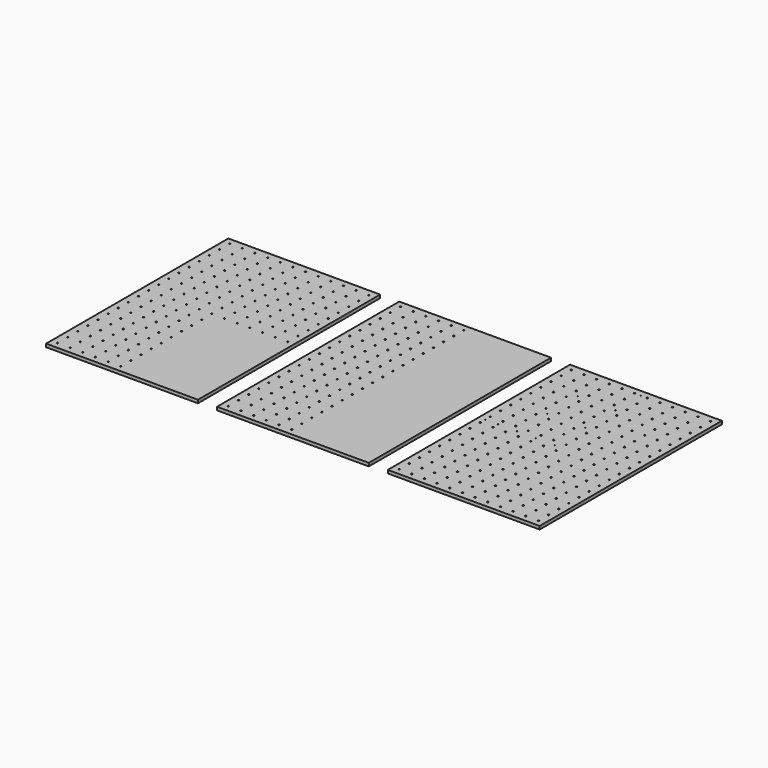
from build123d import *

# Parameters (mm, degrees)
F0_W      = 1219.2
F0_H      = 1828.8
F1_DEPTH  = 25.4
F2_R      = 5.7531
F3_DEPTH  = 19.05
F4_W      = 1219.2
F4_H      = 1828.8
F5_DEPTH  = 25.4
F6_R      = 5.0927
F7_DEPTH  = 19.05
F8_W      = 1219.2
F8_H      = 1828.8
F9_DEPTH  = 25.4
F10_R     = 5.7531
F10_R_2   = 2.413
F11_DEPTH = 19.05


with BuildPart() as f1:
    # F0 (on Top) → F1 (new body)
    with BuildSketch(Plane.XY):
        with Locations((609.6, 914.4)):
            Rectangle(F0_W, F0_H)
    extrude(amount=F1_DEPTH)

    # F2 (on face) → F3 (cut)
    with BuildSketch(Plane.XY.offset(25.4)):
        with Locations((558.8, 965.2)):
            Circle(F2_R)
        with Locations((558.8, 1066.8)):
            Circle(F2_R)
        with Locations((558.8, 1168.4)):
            Circle(F2_R)
        with Locations((558.8, 1270)):
            Circle(F2_R)
        with Locations((558.8, 1371.6)):
            Circle(F2_R)
        with Locations((558.8, 1473.2)):
            Circle(F2_R)
        with Locations((558.8, 1574.8)):
            Circle(F2_R)
        with Locations((558.8, 1676.4)):
            Circle(F2_R)
        with Locations((558.8, 1778)):
            Circle(F2_R)
        with Locations((457.2, 965.2)):
            Circle(F2_R)
        with Locations((457.2, 1066.8)):
            Circle(F2_R)
        with Locations((457.2, 1168.4)):
            Circle(F2_R)
        with Locations((457.2, 1270)):
            Circle(F2_R)
        with Locations((457.2, 1371.6)):
            Circle(F2_R)
        with Locations((457.2, 1473.2)):
            Circle(F2_R)
        with Locations((457.2, 1574.8)):
            Circle(F2_R)
        with Locations((457.2, 1676.4)):
            Circle(F2_R)
        with Locations((457.2, 1778)):
            Circle(F2_R)
        with Locations((355.6, 965.2)):
            Circle(F2_R)
        with Locations((355.6, 1066.8)):
            Circle(F2_R)
        with Locations((355.6, 1168.4)):
            Circle(F2_R)
        with Locations((355.6, 1270)):
            Circle(F2_R)
        with Locations((355.6, 1371.6)):
            Circle(F2_R)
        with Locations((355.6, 1473.2)):
            Circle(F2_R)
        with Locations((355.6, 1574.8)):
            Circle(F2_R)
        with Locations((355.6, 1676.4)):
            Circle(F2_R)
        with Locations((355.6, 1778)):
            Circle(F2_R)
        with Locations((254, 965.2)):
            Circle(F2_R)
        with Locations((254, 1066.8)):
            Circle(F2_R)
        with Locations((254, 1168.4)):
            Circle(F2_R)
        with Locations((254, 1270)):
            Circle(F2_R)
        with Locations((254, 1371.6)):
            Circle(F2_R)
        with Locations((254, 1473.2)):
            Circle(F2_R)
        with Locations((254, 1574.8)):
            Circle(F2_R)
        with Locations((254, 1676.4)):
            Circle(F2_R)
        with Locations((254, 1778)):
            Circle(F2_R)
        with Locations((152.4, 965.2)):
            Circle(F2_R)
        with Locations((152.4, 1066.8)):
            Circle(F2_R)
        with Locations((152.4, 1168.4)):
            Circle(F2_R)
        with Locations((152.4, 1270)):
            Circle(F2_R)
        with Locations((152.4, 1371.6)):
            Circle(F2_R)
        with Locations((152.4, 1473.2)):
            Circle(F2_R)
        with Locations((152.4, 1574.8)):
            Circle(F2_R)
        with Locations((152.4, 1676.4)):
            Circle(F2_R)
        with Locations((152.4, 1778)):
            Circle(F2_R)
        with Locations((50.8, 965.2)):
            Circle(F2_R)
        with Locations((50.8, 1066.8)):
            Circle(F2_R)
        with Locations((50.8, 1168.4)):
            Circle(F2_R)
        with Locations((50.8, 1270)):
            Circle(F2_R)
        with Locations((50.8, 1371.6)):
            Circle(F2_R)
        with Locations((50.8, 1473.2)):
            Circle(F2_R)
        with Locations((50.8, 1574.8)):
            Circle(F2_R)
        with Locations((50.8, 1676.4)):
            Circle(F2_R)
        with Locations((50.8, 1778)):
            Circle(F2_R)
        with Locations((558.8, 863.6)):
            Circle(F2_R)
        with Locations((558.8, 762)):
            Circle(F2_R)
        with Locations((457.2, 863.6)):
            Circle(F2_R)
        with Locations((254, 558.8)):
            Circle(F2_R)
        with Locations((50.8, 558.8)):
            Circle(F2_R)
        with Locations((355.6, 863.6)):
            Circle(F2_R)
        with Locations((254, 863.6)):
            Circle(F2_R)
        with Locations((355.6, 660.4)):
            Circle(F2_R)
        with Locations((50.8, 762)):
            Circle(F2_R)
        with Locations((355.6, 558.8)):
            Circle(F2_R)
        with Locations((355.6, 762)):
            Circle(F2_R)
        with Locations((254, 660.4)):
            Circle(F2_R)
        with Locations((50.8, 863.6)):
            Circle(F2_R)
        with Locations((152.4, 863.6)):
            Circle(F2_R)
        with Locations((457.2, 558.8)):
            Circle(F2_R)
        with Locations((457.2, 660.4)):
            Circle(F2_R)
        with Locations((457.2, 762)):
            Circle(F2_R)
        with Locations((152.4, 660.4)):
            Circle(F2_R)
        with Locations((558.8, 558.8)):
            Circle(F2_R)
        with Locations((152.4, 762)):
            Circle(F2_R)
        with Locations((558.8, 660.4)):
            Circle(F2_R)
        with Locations((254, 762)):
            Circle(F2_R)
        with Locations((152.4, 558.8)):
            Circle(F2_R)
        with Locations((50.8, 660.4)):
            Circle(F2_R)
        with Locations((50.8, 355.6)):
            Circle(F2_R)
        with Locations((355.6, 457.2)):
            Circle(F2_R)
        with Locations((457.2, 457.2)):
            Circle(F2_R)
        with Locations((457.2, 355.6)):
            Circle(F2_R)
        with Locations((152.4, 152.4)):
            Circle(F2_R)
        with Locations((50.8, 254)):
            Circle(F2_R)
        with Locations((558.8, 457.2)):
            Circle(F2_R)
        with Locations((254, 152.4)):
            Circle(F2_R)
        with Locations((558.8, 152.4)):
            Circle(F2_R)
        with Locations((558.8, 355.6)):
            Circle(F2_R)
        with Locations((50.8, 50.8)):
            Circle(F2_R)
        with Locations((558.8, 254)):
            Circle(F2_R)
        with Locations((355.6, 152.4)):
            Circle(F2_R)
        with Locations((152.4, 457.2)):
            Circle(F2_R)
        with Locations((355.6, 355.6)):
            Circle(F2_R)
        with Locations((558.8, 50.8)):
            Circle(F2_R)
        with Locations((457.2, 50.8)):
            Circle(F2_R)
        with Locations((254, 355.6)):
            Circle(F2_R)
        with Locations((254, 254)):
            Circle(F2_R)
        with Locations((457.2, 152.4)):
            Circle(F2_R)
        with Locations((50.8, 152.4)):
            Circle(F2_R)
        with Locations((355.6, 50.8)):
            Circle(F2_R)
        with Locations((152.4, 355.6)):
            Circle(F2_R)
        with Locations((457.2, 254)):
            Circle(F2_R)
        with Locations((355.6, 254)):
            Circle(F2_R)
        with Locations((152.4, 50.8)):
            Circle(F2_R)
        with Locations((50.8, 457.2)):
            Circle(F2_R)
        with Locations((254, 50.8)):
            Circle(F2_R)
        with Locations((254, 457.2)):
            Circle(F2_R)
        with Locations((152.4, 254)):
            Circle(F2_R)
    extrude(amount=-F3_DEPTH, mode=Mode.SUBTRACT)


with BuildPart() as f5:
    # F4 (on Top) → F5 (new body)
    with BuildSketch(Plane.XY):
        with Locations((-762, 914.4)):
            Rectangle(F4_W, F4_H)
    extrude(amount=F5_DEPTH)

    # F6 (on face) → F7 (cut)
    with BuildSketch(Plane.XY.offset(25.4)):
        with Locations((-812.8, 965.2)):
            Circle(F6_R)
        with Locations((-812.8, 1066.8)):
            Circle(F6_R)
        with Locations((-812.8, 1168.4)):
            Circle(F6_R)
        with Locations((-812.8, 1270)):
            Circle(F6_R)
        with Locations((-812.8, 1371.6)):
            Circle(F6_R)
        with Locations((-812.8, 1473.2)):
            Circle(F6_R)
        with Locations((-812.8, 1574.8)):
            Circle(F6_R)
        with Locations((-812.8, 1676.4)):
            Circle(F6_R)
        with Locations((-812.8, 1778)):
            Circle(F6_R)
        with Locations((-914.4, 965.2)):
            Circle(F6_R)
        with Locations((-914.4, 1066.8)):
            Circle(F6_R)
        with Locations((-914.4, 1168.4)):
            Circle(F6_R)
        with Locations((-914.4, 1270)):
            Circle(F6_R)
        with Locations((-914.4, 1371.6)):
            Circle(F6_R)
        with Locations((-914.4, 1473.2)):
            Circle(F6_R)
        with Locations((-914.4, 1574.8)):
            Circle(F6_R)
        with Locations((-914.4, 1676.4)):
            Circle(F6_R)
        with Locations((-914.4, 1778)):
            Circle(F6_R)
        with Locations((-1016, 965.2)):
            Circle(F6_R)
        with Locations((-1016, 1066.8)):
            Circle(F6_R)
        with Locations((-1016, 1168.4)):
            Circle(F6_R)
        with Locations((-1016, 1270)):
            Circle(F6_R)
        with Locations((-1016, 1371.6)):
            Circle(F6_R)
        with Locations((-1016, 1473.2)):
            Circle(F6_R)
        with Locations((-1016, 1574.8)):
            Circle(F6_R)
        with Locations((-1016, 1676.4)):
            Circle(F6_R)
        with Locations((-1016, 1778)):
            Circle(F6_R)
        with Locations((-1117.6, 965.2)):
            Circle(F6_R)
        with Locations((-1117.6, 1066.8)):
            Circle(F6_R)
        with Locations((-1117.6, 1168.4)):
            Circle(F6_R)
        with Locations((-1117.6, 1270)):
            Circle(F6_R)
        with Locations((-1117.6, 1371.6)):
            Circle(F6_R)
        with Locations((-1117.6, 1473.2)):
            Circle(F6_R)
        with Locations((-1117.6, 1574.8)):
            Circle(F6_R)
        with Locations((-1117.6, 1676.4)):
            Circle(F6_R)
        with Locations((-1117.6, 1778)):
            Circle(F6_R)
        with Locations((-1219.2, 965.2)):
            Circle(F6_R)
        with Locations((-1219.2, 1066.8)):
            Circle(F6_R)
        with Locations((-1219.2, 1168.4)):
            Circle(F6_R)
        with Locations((-1219.2, 1270)):
            Circle(F6_R)
        with Locations((-1219.2, 1371.6)):
            Circle(F6_R)
        with Locations((-1219.2, 1473.2)):
            Circle(F6_R)
        with Locations((-1219.2, 1574.8)):
            Circle(F6_R)
        with Locations((-1219.2, 1676.4)):
            Circle(F6_R)
        with Locations((-1219.2, 1778)):
            Circle(F6_R)
        with Locations((-1320.8, 965.2)):
            Circle(F6_R)
        with Locations((-1320.8, 1066.8)):
            Circle(F6_R)
        with Locations((-1320.8, 1168.4)):
            Circle(F6_R)
        with Locations((-1320.8, 1270)):
            Circle(F6_R)
        with Locations((-1320.8, 1371.6)):
            Circle(F6_R)
        with Locations((-1320.8, 1473.2)):
            Circle(F6_R)
        with Locations((-1320.8, 1574.8)):
            Circle(F6_R)
        with Locations((-1320.8, 1676.4)):
            Circle(F6_R)
        with Locations((-1320.8, 1778)):
            Circle(F6_R)
        with Locations((-812.8, 863.6)):
            Circle(F6_R)
        with Locations((-812.8, 762)):
            Circle(F6_R)
        with Locations((-914.4, 863.6)):
            Circle(F6_R)
        with Locations((-1219.2, 254)):
            Circle(F6_R)
        with Locations((-1016, 254)):
            Circle(F6_R)
        with Locations((-1219.2, 152.4)):
            Circle(F6_R)
        with Locations((-812.8, 355.6)):
            Circle(F6_R)
        with Locations((-1016, 660.4)):
            Circle(F6_R)
        with Locations((-812.8, 558.8)):
            Circle(F6_R)
        with Locations((-1219.2, 660.4)):
            Circle(F6_R)
        with Locations((-1219.2, 355.6)):
            Circle(F6_R)
        with Locations((-812.8, 254)):
            Circle(F6_R)
        with Locations((-1320.8, 152.4)):
            Circle(F6_R)
        with Locations((-1117.6, 355.6)):
            Circle(F6_R)
        with Locations((-1117.6, 660.4)):
            Circle(F6_R)
        with Locations((-914.4, 457.2)):
            Circle(F6_R)
        with Locations((-914.4, 660.4)):
            Circle(F6_R)
        with Locations((-1117.6, 254)):
            Circle(F6_R)
        with Locations((-812.8, 152.4)):
            Circle(F6_R)
        with Locations((-1016, 355.6)):
            Circle(F6_R)
        with Locations((-1117.6, 558.8)):
            Circle(F6_R)
        with Locations((-914.4, 254)):
            Circle(F6_R)
        with Locations((-812.8, 457.2)):
            Circle(F6_R)
        with Locations((-914.4, 355.6)):
            Circle(F6_R)
        with Locations((-1320.8, 355.6)):
            Circle(F6_R)
        with Locations((-812.8, 660.4)):
            Circle(F6_R)
        with Locations((-914.4, 152.4)):
            Circle(F6_R)
        with Locations((-812.8, 50.8)):
            Circle(F6_R)
        with Locations((-1219.2, 558.8)):
            Circle(F6_R)
        with Locations((-1320.8, 762)):
            Circle(F6_R)
        with Locations((-1016, 457.2)):
            Circle(F6_R)
        with Locations((-1117.6, 152.4)):
            Circle(F6_R)
        with Locations((-1016, 152.4)):
            Circle(F6_R)
        with Locations((-1117.6, 863.6)):
            Circle(F6_R)
        with Locations((-1320.8, 50.8)):
            Circle(F6_R)
        with Locations((-1219.2, 863.6)):
            Circle(F6_R)
        with Locations((-1016, 50.8)):
            Circle(F6_R)
        with Locations((-1016, 558.8)):
            Circle(F6_R)
        with Locations((-1320.8, 254)):
            Circle(F6_R)
        with Locations((-1117.6, 762)):
            Circle(F6_R)
        with Locations((-1117.6, 457.2)):
            Circle(F6_R)
        with Locations((-1117.6, 50.8)):
            Circle(F6_R)
        with Locations((-1320.8, 660.4)):
            Circle(F6_R)
        with Locations((-1320.8, 863.6)):
            Circle(F6_R)
        with Locations((-1320.8, 558.8)):
            Circle(F6_R)
        with Locations((-914.4, 762)):
            Circle(F6_R)
        with Locations((-1320.8, 457.2)):
            Circle(F6_R)
        with Locations((-914.4, 50.8)):
            Circle(F6_R)
        with Locations((-1219.2, 50.8)):
            Circle(F6_R)
        with Locations((-1219.2, 762)):
            Circle(F6_R)
        with Locations((-1016, 762)):
            Circle(F6_R)
        with Locations((-1219.2, 457.2)):
            Circle(F6_R)
        with Locations((-1016, 863.6)):
            Circle(F6_R)
        with Locations((-914.4, 558.8)):
            Circle(F6_R)
        with Locations((-711.2, 965.2)):
            Circle(F6_R)
        with Locations((-609.6, 965.2)):
            Circle(F6_R)
        with Locations((-711.2, 1066.8)):
            Circle(F6_R)
        with Locations((-203.2, 1778)):
            Circle(F6_R)
        with Locations((-304.8, 1066.8)):
            Circle(F6_R)
        with Locations((-304.8, 1371.6)):
            Circle(F6_R)
        with Locations((-508, 1676.4)):
            Circle(F6_R)
        with Locations((-304.8, 1473.2)):
            Circle(F6_R)
        with Locations((-508, 1066.8)):
            Circle(F6_R)
        with Locations((-406.4, 1371.6)):
            Circle(F6_R)
        with Locations((-711.2, 1676.4)):
            Circle(F6_R)
        with Locations((-609.6, 1473.2)):
            Circle(F6_R)
        with Locations((-711.2, 1371.6)):
            Circle(F6_R)
        with Locations((-304.8, 1574.8)):
            Circle(F6_R)
        with Locations((-406.4, 1473.2)):
            Circle(F6_R)
        with Locations((-203.2, 1676.4)):
            Circle(F6_R)
        with Locations((-203.2, 1371.6)):
            Circle(F6_R)
        with Locations((-203.2, 1574.8)):
            Circle(F6_R)
        with Locations((-609.6, 1270)):
            Circle(F6_R)
        with Locations((-203.2, 1270)):
            Circle(F6_R)
        with Locations((-508, 1371.6)):
            Circle(F6_R)
        with Locations((-304.8, 965.2)):
            Circle(F6_R)
        with Locations((-304.8, 1168.4)):
            Circle(F6_R)
        with Locations((-203.2, 1066.8)):
            Circle(F6_R)
        with Locations((-406.4, 1574.8)):
            Circle(F6_R)
        with Locations((-508, 1270)):
            Circle(F6_R)
        with Locations((-609.6, 1168.4)):
            Circle(F6_R)
        with Locations((-406.4, 965.2)):
            Circle(F6_R)
        with Locations((-609.6, 1574.8)):
            Circle(F6_R)
        with Locations((-711.2, 1778)):
            Circle(F6_R)
        with Locations((-406.4, 1066.8)):
            Circle(F6_R)
        with Locations((-609.6, 1066.8)):
            Circle(F6_R)
        with Locations((-406.4, 1778)):
            Circle(F6_R)
        with Locations((-304.8, 1270)):
            Circle(F6_R)
        with Locations((-508, 1574.8)):
            Circle(F6_R)
        with Locations((-711.2, 1473.2)):
            Circle(F6_R)
        with Locations((-406.4, 1270)):
            Circle(F6_R)
        with Locations((-304.8, 1676.4)):
            Circle(F6_R)
        with Locations((-711.2, 1168.4)):
            Circle(F6_R)
        with Locations((-203.2, 965.2)):
            Circle(F6_R)
        with Locations((-304.8, 1778)):
            Circle(F6_R)
        with Locations((-711.2, 1574.8)):
            Circle(F6_R)
        with Locations((-711.2, 1270)):
            Circle(F6_R)
        with Locations((-609.6, 1371.6)):
            Circle(F6_R)
        with Locations((-609.6, 1676.4)):
            Circle(F6_R)
        with Locations((-203.2, 1473.2)):
            Circle(F6_R)
        with Locations((-508, 1168.4)):
            Circle(F6_R)
        with Locations((-508, 965.2)):
            Circle(F6_R)
        with Locations((-406.4, 1676.4)):
            Circle(F6_R)
        with Locations((-508, 1473.2)):
            Circle(F6_R)
        with Locations((-406.4, 1168.4)):
            Circle(F6_R)
        with Locations((-609.6, 1778)):
            Circle(F6_R)
        with Locations((-508, 1778)):
            Circle(F6_R)
        with Locations((-203.2, 1168.4)):
            Circle(F6_R)
    extrude(amount=-F7_DEPTH, mode=Mode.SUBTRACT)


with BuildPart() as f9:
    # F8 (on Top) → F9 (new body)
    with BuildSketch(Plane.XY):
        with Locations((1981.2, 914.4)):
            Rectangle(F8_W, F8_H)
    extrude(amount=F9_DEPTH)

    # F10 (on face) → F11 (cut)
    with BuildSketch(Plane.XY.offset(25.4)):
        with Locations((1422.4, 1778)):
            Circle(F10_R)
        with Locations((1422.4, 1676.4)):
            Circle(F10_R)
        with Locations((1422.4, 1574.8)):
            Circle(F10_R)
        with Locations((1422.4, 1473.2)):
            Circle(F10_R)
        with Locations((1422.4, 1371.6)):
            Circle(F10_R)
        with Locations((1422.4, 1270)):
            Circle(F10_R)
        with Locations((1422.4, 1168.4)):
            Circle(F10_R)
        with Locations((1422.4, 1066.8)):
            Circle(F10_R)
        with Locations((1422.4, 965.2)):
            Circle(F10_R)
        with Locations((1422.4, 863.6)):
            Circle(F10_R)
        with Locations((1422.4, 762)):
            Circle(F10_R)
        with Locations((1422.4, 660.4)):
            Circle(F10_R)
        with Locations((1422.4, 558.8)):
            Circle(F10_R)
        with Locations((1422.4, 457.2)):
            Circle(F10_R)
        with Locations((1422.4, 355.6)):
            Circle(F10_R)
        with Locations((1422.4, 254)):
            Circle(F10_R)
        with Locations((1422.4, 152.4)):
            Circle(F10_R)
        with Locations((1422.4, 50.8)):
            Circle(F10_R)
        with Locations((1524, 1778)):
            Circle(F10_R)
        with Locations((1524, 1676.4)):
            Circle(F10_R)
        with Locations((1524, 1574.8)):
            Circle(F10_R)
        with Locations((1524, 1473.2)):
            Circle(F10_R)
        with Locations((1524, 1371.6)):
            Circle(F10_R)
        with Locations((1524, 1270)):
            Circle(F10_R)
        with Locations((1524, 1168.4)):
            Circle(F10_R)
        with Locations((1524, 1066.8)):
            Circle(F10_R)
        with Locations((1524, 965.2)):
            Circle(F10_R)
        with Locations((1524, 863.6)):
            Circle(F10_R)
        with Locations((1524, 762)):
            Circle(F10_R)
        with Locations((1524, 660.4)):
            Circle(F10_R)
        with Locations((1524, 558.8)):
            Circle(F10_R)
        with Locations((1524, 457.2)):
            Circle(F10_R)
        with Locations((1524, 355.6)):
            Circle(F10_R)
        with Locations((1524, 254)):
            Circle(F10_R)
        with Locations((1524, 152.4)):
            Circle(F10_R)
        with Locations((1524, 50.8)):
            Circle(F10_R)
        with Locations((1625.6, 1778)):
            Circle(F10_R)
        with Locations((1625.6, 1676.4)):
            Circle(F10_R)
        with Locations((1625.6, 1574.8)):
            Circle(F10_R)
        with Locations((1625.6, 1473.2)):
            Circle(F10_R)
        with Locations((1625.6, 1371.6)):
            Circle(F10_R)
        with Locations((1625.6, 1270)):
            Circle(F10_R)
        with Locations((1625.6, 1168.4)):
            Circle(F10_R)
        with Locations((1625.6, 1066.8)):
            Circle(F10_R)
        with Locations((1625.6, 965.2)):
            Circle(F10_R)
        with Locations((1625.6, 863.6)):
            Circle(F10_R)
        with Locations((1625.6, 762)):
            Circle(F10_R)
        with Locations((1625.6, 660.4)):
            Circle(F10_R)
        with Locations((1625.6, 558.8)):
            Circle(F10_R)
        with Locations((1625.6, 457.2)):
            Circle(F10_R)
        with Locations((1625.6, 355.6)):
            Circle(F10_R)
        with Locations((1625.6, 254)):
            Circle(F10_R)
        with Locations((1625.6, 152.4)):
            Circle(F10_R)
        with Locations((1625.6, 50.8)):
            Circle(F10_R)
        with Locations((1727.2, 1778)):
            Circle(F10_R)
        with Locations((1727.2, 1676.4)):
            Circle(F10_R)
        with Locations((1727.2, 1574.8)):
            Circle(F10_R)
        with Locations((1727.2, 1473.2)):
            Circle(F10_R)
        with Locations((1727.2, 1371.6)):
            Circle(F10_R)
        with Locations((1727.2, 1270)):
            Circle(F10_R)
        with Locations((1727.2, 1168.4)):
            Circle(F10_R)
        with Locations((1727.2, 1066.8)):
            Circle(F10_R)
        with Locations((1727.2, 965.2)):
            Circle(F10_R)
        with Locations((1727.2, 863.6)):
            Circle(F10_R)
        with Locations((1727.2, 762)):
            Circle(F10_R)
        with Locations((1727.2, 660.4)):
            Circle(F10_R)
        with Locations((1727.2, 558.8)):
            Circle(F10_R)
        with Locations((1727.2, 457.2)):
            Circle(F10_R)
        with Locations((1727.2, 355.6)):
            Circle(F10_R)
        with Locations((1727.2, 254)):
            Circle(F10_R)
        with Locations((1727.2, 152.4)):
            Circle(F10_R)
        with Locations((1727.2, 50.8)):
            Circle(F10_R)
        with Locations((1828.8, 1778)):
            Circle(F10_R)
        with Locations((1828.8, 1676.4)):
            Circle(F10_R)
        with Locations((1828.8, 1574.8)):
            Circle(F10_R)
        with Locations((1828.8, 1473.2)):
            Circle(F10_R)
        with Locations((1828.8, 1371.6)):
            Circle(F10_R)
        with Locations((1828.8, 1270)):
            Circle(F10_R)
        with Locations((1828.8, 1168.4)):
            Circle(F10_R)
        with Locations((1828.8, 1066.8)):
            Circle(F10_R)
        with Locations((1828.8, 965.2)):
            Circle(F10_R)
        with Locations((1828.8, 863.6)):
            Circle(F10_R)
        with Locations((1828.8, 762)):
            Circle(F10_R)
        with Locations((1828.8, 660.4)):
            Circle(F10_R)
        with Locations((1828.8, 558.8)):
            Circle(F10_R)
        with Locations((1828.8, 457.2)):
            Circle(F10_R)
        with Locations((1828.8, 355.6)):
            Circle(F10_R)
        with Locations((1828.8, 254)):
            Circle(F10_R)
        with Locations((1828.8, 152.4)):
            Circle(F10_R)
        with Locations((1828.8, 50.8)):
            Circle(F10_R)
        with Locations((1930.4, 1778)):
            Circle(F10_R)
        with Locations((1930.4, 1676.4)):
            Circle(F10_R)
        with Locations((1930.4, 1574.8)):
            Circle(F10_R)
        with Locations((1930.4, 1473.2)):
            Circle(F10_R)
        with Locations((1930.4, 1371.6)):
            Circle(F10_R)
        with Locations((1930.4, 1270)):
            Circle(F10_R)
        with Locations((1930.4, 1168.4)):
            Circle(F10_R)
        with Locations((1930.4, 1066.8)):
            Circle(F10_R)
        with Locations((1930.4, 965.2)):
            Circle(F10_R)
        with Locations((1930.4, 863.6)):
            Circle(F10_R)
        with Locations((1930.4, 762)):
            Circle(F10_R)
        with Locations((1930.4, 660.4)):
            Circle(F10_R)
        with Locations((1930.4, 558.8)):
            Circle(F10_R)
        with Locations((1930.4, 457.2)):
            Circle(F10_R)
        with Locations((1930.4, 355.6)):
            Circle(F10_R)
        with Locations((1930.4, 254)):
            Circle(F10_R)
        with Locations((1930.4, 152.4)):
            Circle(F10_R)
        with Locations((1930.4, 50.8)):
            Circle(F10_R)
        with Locations((2032, 1778)):
            Circle(F10_R)
        with Locations((2032, 1676.4)):
            Circle(F10_R)
        with Locations((2032, 1574.8)):
            Circle(F10_R)
        with Locations((2032, 1473.2)):
            Circle(F10_R)
        with Locations((2032, 1371.6)):
            Circle(F10_R)
        with Locations((2032, 1270)):
            Circle(F10_R)
        with Locations((2032, 1168.4)):
            Circle(F10_R)
        with Locations((2032, 1066.8)):
            Circle(F10_R)
        with Locations((2032, 965.2)):
            Circle(F10_R)
        with Locations((2032, 863.6)):
            Circle(F10_R)
        with Locations((2032, 762)):
            Circle(F10_R)
        with Locations((2032, 660.4)):
            Circle(F10_R)
        with Locations((2032, 558.8)):
            Circle(F10_R)
        with Locations((2032, 457.2)):
            Circle(F10_R)
        with Locations((2032, 355.6)):
            Circle(F10_R)
        with Locations((2032, 254)):
            Circle(F10_R)
        with Locations((2032, 152.4)):
            Circle(F10_R)
        with Locations((2032, 50.8)):
            Circle(F10_R)
        with Locations((2133.6, 1778)):
            Circle(F10_R)
        with Locations((2133.6, 1676.4)):
            Circle(F10_R)
        with Locations((2133.6, 1574.8)):
            Circle(F10_R)
        with Locations((2133.6, 1473.2)):
            Circle(F10_R)
        with Locations((2133.6, 1371.6)):
            Circle(F10_R)
        with Locations((2133.6, 1270)):
            Circle(F10_R)
        with Locations((2133.6, 1168.4)):
            Circle(F10_R)
        with Locations((2133.6, 1066.8)):
            Circle(F10_R)
        with Locations((2133.6, 965.2)):
            Circle(F10_R)
        with Locations((2133.6, 863.6)):
            Circle(F10_R)
        with Locations((2133.6, 762)):
            Circle(F10_R)
        with Locations((2133.6, 660.4)):
            Circle(F10_R)
        with Locations((2133.6, 558.8)):
            Circle(F10_R)
        with Locations((2133.6, 457.2)):
            Circle(F10_R)
        with Locations((2133.6, 355.6)):
            Circle(F10_R)
        with Locations((2133.6, 254)):
            Circle(F10_R)
        with Locations((2133.6, 152.4)):
            Circle(F10_R)
        with Locations((2133.6, 50.8)):
            Circle(F10_R)
        with Locations((2235.2, 1778)):
            Circle(F10_R)
        with Locations((2235.2, 1676.4)):
            Circle(F10_R)
        with Locations((2235.2, 1574.8)):
            Circle(F10_R)
        with Locations((2235.2, 1473.2)):
            Circle(F10_R)
        with Locations((2235.2, 1371.6)):
            Circle(F10_R)
        with Locations((2235.2, 1270)):
            Circle(F10_R)
        with Locations((2235.2, 1168.4)):
            Circle(F10_R)
        with Locations((2235.2, 1066.8)):
            Circle(F10_R)
        with Locations((2235.2, 965.2)):
            Circle(F10_R)
        with Locations((2235.2, 863.6)):
            Circle(F10_R)
        with Locations((2235.2, 762)):
            Circle(F10_R)
        with Locations((2235.2, 660.4)):
            Circle(F10_R)
        with Locations((2235.2, 558.8)):
            Circle(F10_R)
        with Locations((2235.2, 457.2)):
            Circle(F10_R)
        with Locations((2235.2, 355.6)):
            Circle(F10_R)
        with Locations((2235.2, 254)):
            Circle(F10_R)
        with Locations((2235.2, 152.4)):
            Circle(F10_R)
        with Locations((2235.2, 50.8)):
            Circle(F10_R)
        with Locations((2336.8, 1778)):
            Circle(F10_R)
        with Locations((2336.8, 1676.4)):
            Circle(F10_R)
        with Locations((2336.8, 1574.8)):
            Circle(F10_R)
        with Locations((2336.8, 1473.2)):
            Circle(F10_R)
        with Locations((2336.8, 1371.6)):
            Circle(F10_R)
        with Locations((2336.8, 1270)):
            Circle(F10_R)
        with Locations((2336.8, 1168.4)):
            Circle(F10_R)
        with Locations((2336.8, 1066.8)):
            Circle(F10_R)
        with Locations((2336.8, 965.2)):
            Circle(F10_R)
        with Locations((2336.8, 863.6)):
            Circle(F10_R)
        with Locations((2336.8, 762)):
            Circle(F10_R)
        with Locations((2336.8, 660.4)):
            Circle(F10_R)
        with Locations((2336.8, 558.8)):
            Circle(F10_R)
        with Locations((2336.8, 457.2)):
            Circle(F10_R)
        with Locations((2336.8, 355.6)):
            Circle(F10_R)
        with Locations((2336.8, 254)):
            Circle(F10_R)
        with Locations((2336.8, 152.4)):
            Circle(F10_R)
        with Locations((2336.8, 50.8)):
            Circle(F10_R)
        with Locations((2438.4, 1778)):
            Circle(F10_R)
        with Locations((2438.4, 1676.4)):
            Circle(F10_R)
        with Locations((2438.4, 1574.8)):
            Circle(F10_R)
        with Locations((2438.4, 1473.2)):
            Circle(F10_R)
        with Locations((2438.4, 1371.6)):
            Circle(F10_R)
        with Locations((2438.4, 1270)):
            Circle(F10_R)
        with Locations((2438.4, 1168.4)):
            Circle(F10_R)
        with Locations((2438.4, 1066.8)):
            Circle(F10_R)
        with Locations((2438.4, 965.2)):
            Circle(F10_R)
        with Locations((2438.4, 863.6)):
            Circle(F10_R)
        with Locations((2438.4, 762)):
            Circle(F10_R)
        with Locations((2438.4, 660.4)):
            Circle(F10_R)
        with Locations((2438.4, 558.8)):
            Circle(F10_R)
        with Locations((2438.4, 457.2)):
            Circle(F10_R)
        with Locations((2438.4, 355.6)):
            Circle(F10_R)
        with Locations((2438.4, 254)):
            Circle(F10_R)
        with Locations((2438.4, 152.4)):
            Circle(F10_R)
        with Locations((2438.4, 50.8)):
            Circle(F10_R)
        with Locations((2540, 1778)):
            Circle(F10_R)
        with Locations((2540, 1676.4)):
            Circle(F10_R)
        with Locations((2540, 1574.8)):
            Circle(F10_R)
        with Locations((2540, 1473.2)):
            Circle(F10_R)
        with Locations((2540, 1371.6)):
            Circle(F10_R)
        with Locations((2540, 1270)):
            Circle(F10_R)
        with Locations((2540, 1168.4)):
            Circle(F10_R)
        with Locations((2540, 1066.8)):
            Circle(F10_R)
        with Locations((2540, 965.2)):
            Circle(F10_R)
        with Locations((2540, 863.6)):
            Circle(F10_R)
        with Locations((2540, 762)):
            Circle(F10_R)
        with Locations((2540, 660.4)):
            Circle(F10_R)
        with Locations((2540, 558.8)):
            Circle(F10_R)
        with Locations((2540, 457.2)):
            Circle(F10_R)
        with Locations((2540, 355.6)):
            Circle(F10_R)
        with Locations((2540, 254)):
            Circle(F10_R)
        with Locations((2540, 152.4)):
            Circle(F10_R)
        with Locations((2540, 50.8)):
            Circle(F10_R)
        with Locations((1422.4, 914.4)):
            Circle(F10_R_2)
        with Locations((1981.2, 914.4)):
            Circle(F10_R_2)
        with Locations((1828.8, 914.4)):
            Circle(F10_R_2)
        with Locations((1676.4, 914.4)):
            Circle(F10_R_2)
        with Locations((1524, 914.4)):
            Circle(F10_R_2)
        with Locations((1981.2, 1219.2)):
            Circle(F10_R_2)
        with Locations((1676.4, 1219.2)):
            Circle(F10_R_2)
        with Locations((1981.2, 1524)):
            Circle(F10_R_2)
        with Locations((1676.4, 1524)):
            Circle(F10_R_2)
        with Locations((1981.2, 1778)):
            Circle(F10_R_2)
    extrude(amount=-F11_DEPTH, mode=Mode.SUBTRACT)


solid = Compound([f1.part, f5.part, f9.part])
